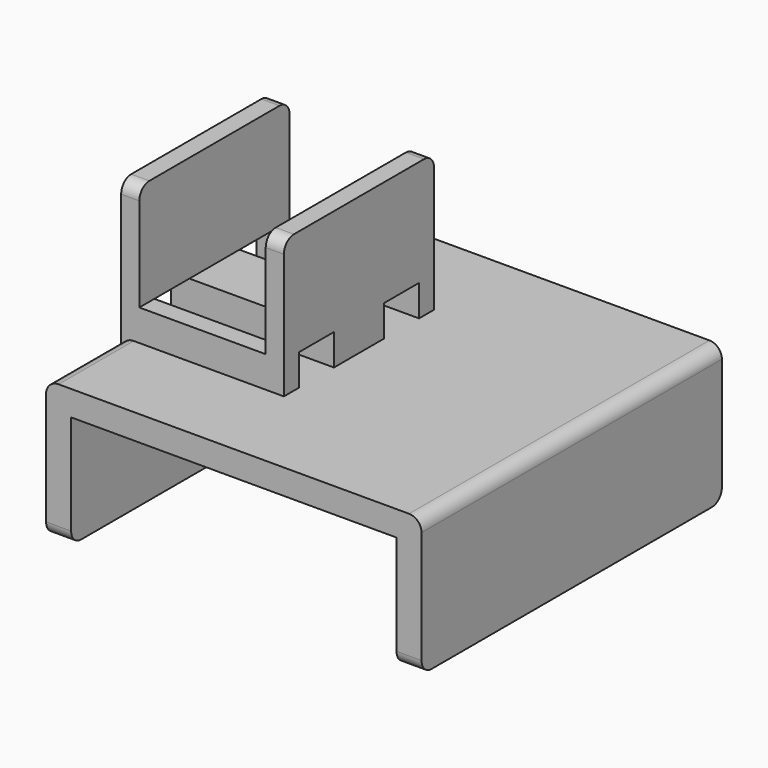
from build123d import *

# Parameters (mm, degrees)
F0_W     = 30
F0_H     = 30
F1_DEPTH = 11
F2_W     = 26
F2_H     = 30
F3_DEPTH = 9
F4_W     = 1.45
F4_H     = 15
F5_DEPTH = 11
F6_W     = 10.1
F6_H     = 15
F7_DEPTH = 2.5
F8_W     = 3.5
F8_H     = 2.5
F9_DEPTH = 13.001
F10_R    = 1


with BuildPart() as f1:
    # F0 (on Top) → F1 (new body)
    with BuildSketch(Plane.XY):
        Rectangle(F0_W, F0_H)
    extrude(amount=F1_DEPTH)

    # F2 (on face) → F3 (cut)
    with BuildSketch(Plane(origin=(0, 0, 0), x_dir=(1, 0, 0), z_dir=(0, 0, -1))):
        Rectangle(F2_W, F2_H)
    extrude(amount=-F3_DEPTH, mode=Mode.SUBTRACT)

    # F4 (on face) → F5 (join)
    with BuildSketch(Plane.XY.offset(11)):
        with Locations((-14.275, 0)):
            Rectangle(F4_W, F4_H)
        with Locations((-2.725, 0)):
            Rectangle(F4_W, F4_H)
    extrude(amount=F5_DEPTH)

    # F6 (on face) → F7 (join)
    with BuildSketch(Plane.XY.offset(11)):
        with Locations((-8.5, 0)):
            Rectangle(F6_W, F6_H)
    extrude(amount=F7_DEPTH)

    # F8 (on face) → F9 (cut, through all)
    with BuildSketch(Plane.YZ.offset(-2)):
        with Locations((-4.25, 12.25)):
            Rectangle(F8_W, F8_H)
        with Locations((4.25, 12.25)):
            Rectangle(F8_W, F8_H)
    extrude(amount=-F9_DEPTH, mode=Mode.SUBTRACT)

    # F10
    f10_edges = [f1.edges().sort_by_distance(p)[0] for p in [
        (-14.275, 7.5, 22),
        (-14.275, -7.5, 22),
        (-2.725, -7.5, 22),
        (-2.725, 7.5, 22),
        (-15, -11.25, 11),
        (-15, 11.25, 11),
        (-15, 4.25, 11),
        (-15, -4.25, 11),
        (15, 0, 11),
        (-14, -15, 0),
        (14, -15, 0),
        (-14, 15, 0),
        (14, 15, 0),
    ]]
    fillet(f10_edges, radius=F10_R)


solid = f1.part
